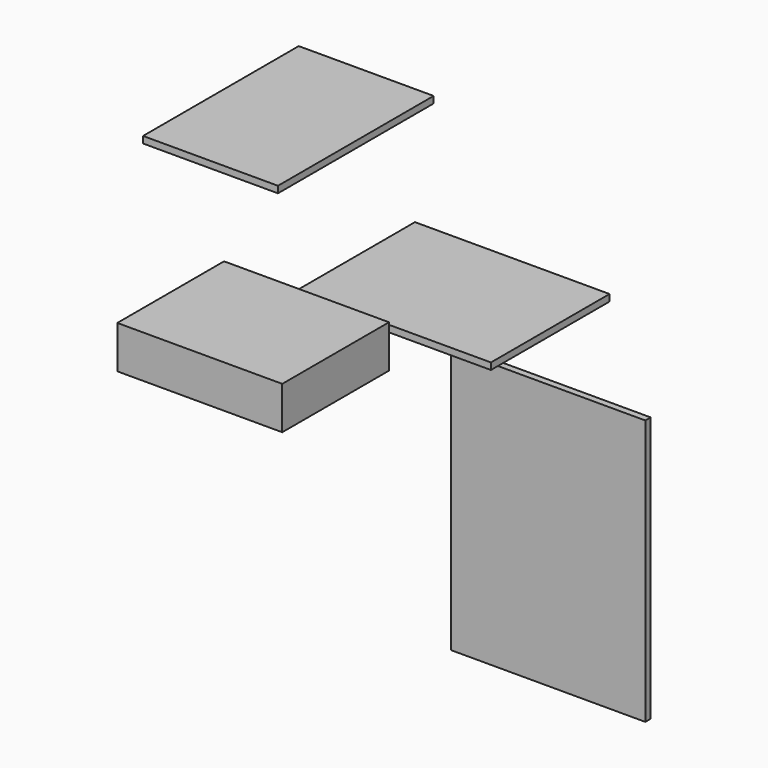
from build123d import *

# Parameters (mm, degrees)
F0_W     = 525
F0_H     = 400
F1_DEPTH = 18
F2_W     = 525
F2_H     = 716
F3_DEPTH = 18
F4_W     = 364
F4_H     = 525
F5_DEPTH = 18
F6_W     = 445
F6_H     = 360
F7_DEPTH = 115


with BuildPart() as f1:
    # F0 (on Top) → F1 (new body)
    with BuildSketch(Plane.XY):
        with Locations((262.5, -200)):
            Rectangle(F0_W, F0_H)
    extrude(amount=F1_DEPTH)


with BuildPart() as f3:
    # F2 (on Front) → F3 (new body)
    with BuildSketch(Plane.XZ):
        with Locations((373.536677, -596.97741)):
            Rectangle(F2_W, F2_H)
    extrude(amount=F3_DEPTH)


with BuildPart() as f5:
    # F4 (on Top) → F5 (new body)
    with BuildSketch(Plane.XY):
        with Locations((-510.943099, 211.707413)):
            Rectangle(F4_W, F4_H)
    extrude(amount=F5_DEPTH)


with BuildPart() as f7:
    # F6 (on Top) → F7 (new body)
    with BuildSketch(Plane.XY):
        with Locations((136.589084, -716.390855)):
            Rectangle(F6_W, F6_H)
    extrude(amount=F7_DEPTH)


solid = Compound([f1.part, f3.part, f5.part, f7.part])
